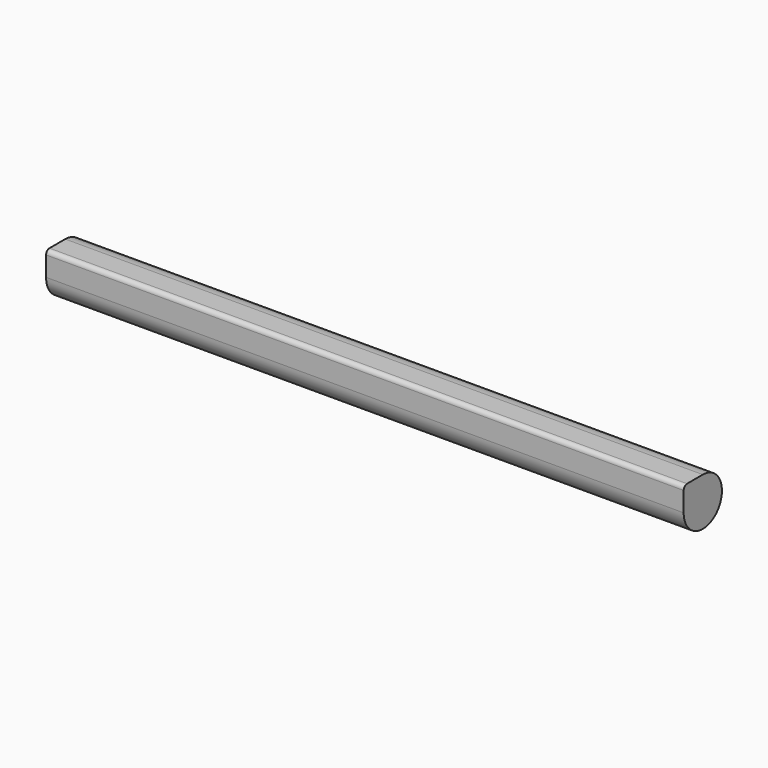
from build123d import *

# Parameters (mm, degrees)
F1_DEPTH = 230.124


with BuildPart() as f1:
    # F0 (on Right) → F1 (new body)
    with BuildSketch(Plane.YZ):
        with BuildLine():
            Line((-8.636, 7.112), (-8.636, 0))
            ThreePointArc((-8.636, 0), (6.106574, -6.106574), (0, 8.636))
            Line((0, 8.636), (-7.112, 8.636))
            ThreePointArc((-7.112, 8.636), (-8.189631, 8.189631), (-8.636, 7.112))
        make_face()
    extrude(amount=F1_DEPTH)


solid = f1.part
